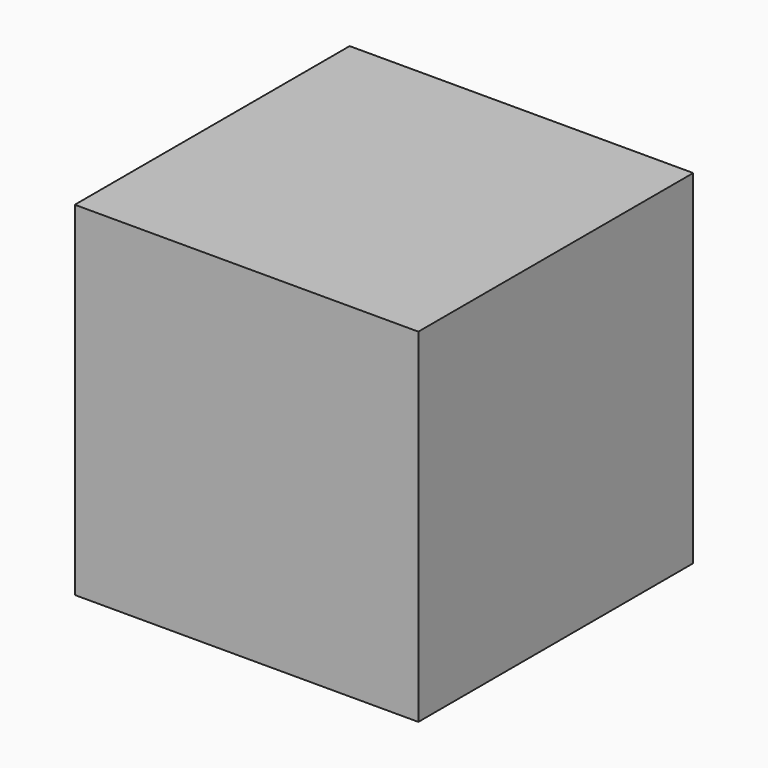
from build123d import *

# Parameters (mm, degrees)
F0_W     = 127
F0_H     = 127
F1_DEPTH = 63.5
F2_T     = -1.27


with BuildPart() as f1:
    # F0 (on Front) → F1 (new body, symmetric)
    with BuildSketch(Plane.XZ):
        Rectangle(F0_W, F0_H)
    extrude(amount=F1_DEPTH, both=True)

    # F2
    f2_openings = [f1.faces().sort_by_distance(p)[0] for p in [
        (0, 0, -63.5),
    ]]
    offset(amount=F2_T, openings=f2_openings)


solid = f1.part
